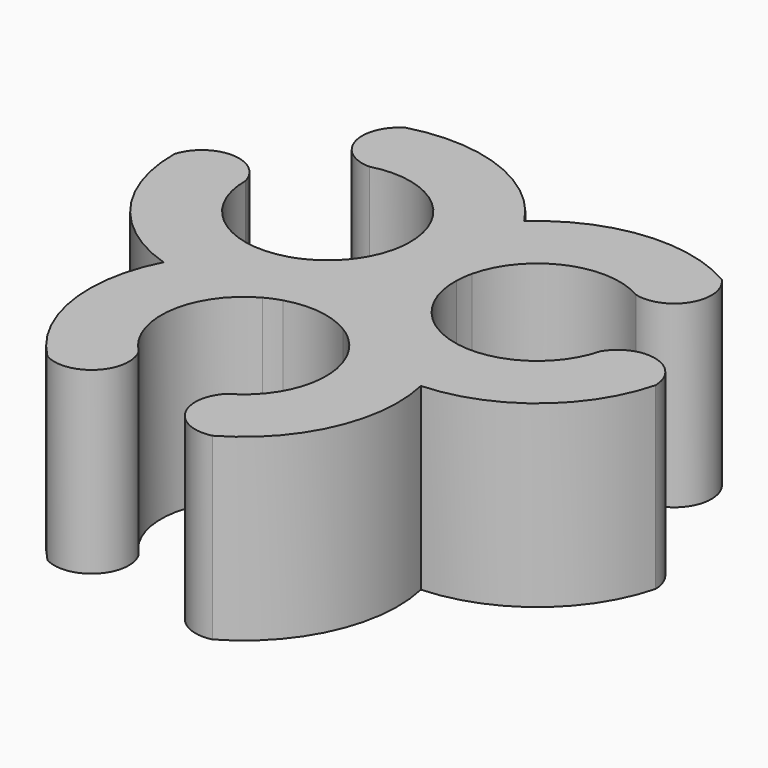
from build123d import *

# Parameters (mm, degrees)
F1_DEPTH = 5


with BuildPart() as f1:
    # F0 (on Top) → F1 (new body)
    with BuildSketch(Plane.XY):
        with BuildLine():
            ThreePointArc((-2.354749, 0.109321), (-4.395277, 0.472261), (-5.315378, 2.329381))
            ThreePointArc((-5.315378, 2.329381), (-6.309771, 3.091632), (-7.315323, 2.344162))
            ThreePointArc((-7.315323, 2.344162), (-6.493557, -0.215996), (-4.311826, -1.787541))
            ThreePointArc((-4.311826, -1.787541), (-4.741691, -4.441768), (-3.51102, -6.832407))
            ThreePointArc((-3.51102, -6.832407), (-2.271557, -6.649168), (-2.108157, -5.406934))
            ThreePointArc((-2.108157, -5.406934), (-2.771914, -3.443542), (-1.586706, -1.743318))
            ThreePointArc((-1.586706, -1.743318), (-1.375676, -1.642983), (-1.155555, -1.564577))
            ThreePointArc((-1.155555, -1.564577), (-0.195341, -1.487226), (0.71233, -1.809915))
            ThreePointArc((0.71233, -1.809915), (0.904738, -1.942505), (1.0827, -2.093933))
            ThreePointArc((1.0827, -2.093933), (1.788648, -4.042552), (0.640385, -5.767943))
            ThreePointArc((0.640385, -5.767943), (0.477454, -7.010238), (1.627558, -7.507336))
            ThreePointArc((1.627558, -7.507336), (3.433836, -5.515588), (3.703969, -2.840381))
            ThreePointArc((3.703969, -2.840381), (6.21753, -1.885541), (7.672548, 0.37557))
            ThreePointArc((7.672548, 0.37557), (6.894127, 1.357358), (5.73662, 0.87775))
            ThreePointArc((5.73662, 0.87775), (4.368152, -0.678777), (2.30311, -0.502468))
            ThreePointArc((2.30311, -0.502468), (2.110703, -0.369879), (1.932741, -0.218451))
            ThreePointArc((1.932741, -0.218451), (1.385646, 0.574443), (1.211268, 1.521854))
            ThreePointArc((1.211268, 1.521854), (1.22989, 1.754778), (1.272049, 1.984612))
            ThreePointArc((1.272049, 1.984612), (2.606629, 3.570291), (4.674992, 3.438561))
            ThreePointArc((4.674992, 3.438561), (5.832318, 3.918606), (5.687765, 5.163175))
            ThreePointArc((5.687765, 5.163175), (3.059721, 5.731583), (0.607857, 4.627921))
            ThreePointArc((0.607857, 4.627921), (-1.475838, 6.327309), (-4.161527, 6.456836))
            ThreePointArc((-4.161527, 6.456836), (-4.62257, 5.29181), (-3.628464, 4.529184))
            ThreePointArc((-3.628464, 4.529184), (-1.596238, 4.122319), (-0.716405, 2.245786))
            ThreePointArc((-0.716405, 2.245786), (-0.735027, 2.012862), (-0.777186, 1.783028))
            ThreePointArc((-0.777186, 1.783028), (-1.190305, 0.912783), (-1.923598, 0.288062))
            ThreePointArc((-1.923598, 0.288062), (-2.134628, 0.187727), (-2.354749, 0.109321))
        make_face()
    extrude(amount=F1_DEPTH)


solid = f1.part
